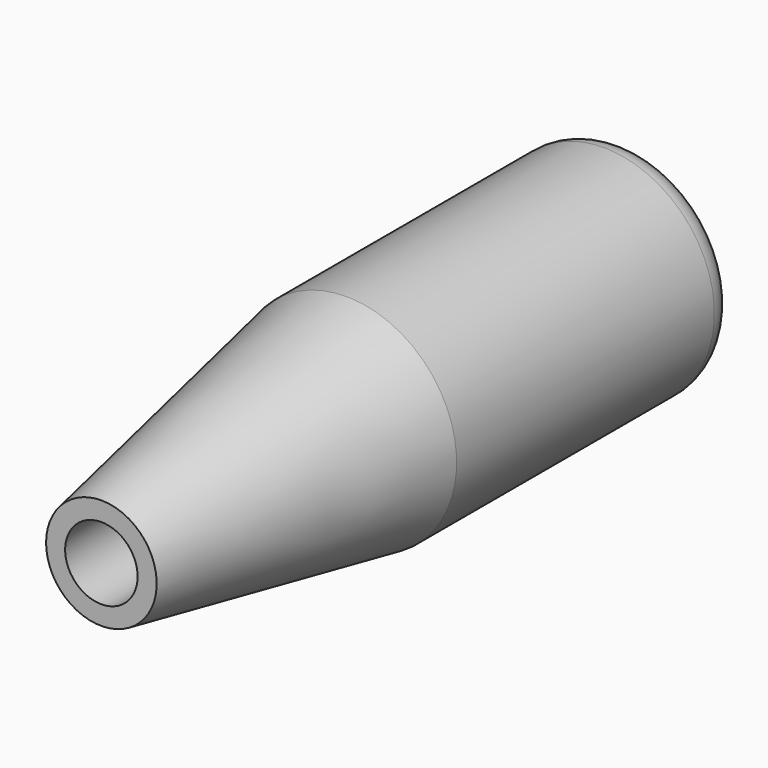
from build123d import *

# Parameters (mm, degrees)
F3_R     = 2
F5_D     = 5.25
F5_DEPTH = 14.8190481046


with BuildPart() as f2:
    # F0 (on Top) → F2 (revolve)
    with BuildSketch(Plane.XY):
        Polygon((0, -14.8180481046), (0, 32.7115394175), (-8, 32.7115394175), (-8, 7.3624262586), (-4.0073962882, -14.8180481046), align=None)
    revolve(axis=Axis((0, 8.853550069, 0), (0, -1, 0)))

    # F3
    f3_edges = [f2.edges().sort_by_distance(p)[0] for p in [
        (8, 32.711539, 0),
    ]]
    fillet(f3_edges, radius=F3_R)

    # F5 (through all, one way)
    with BuildSketch(Plane(origin=(0, 0, 0), x_dir=(1, 0, 0), z_dir=(0, 1, 0))):
        with Locations((0, 0)):
            Circle(F5_D / 2)
    extrude(amount=-F5_DEPTH, mode=Mode.SUBTRACT)


with BuildPart() as f2_1:
    # F6: moved
    add(f2.part.moved(Location((8, 0, 0))))


solid = f2_1.part
